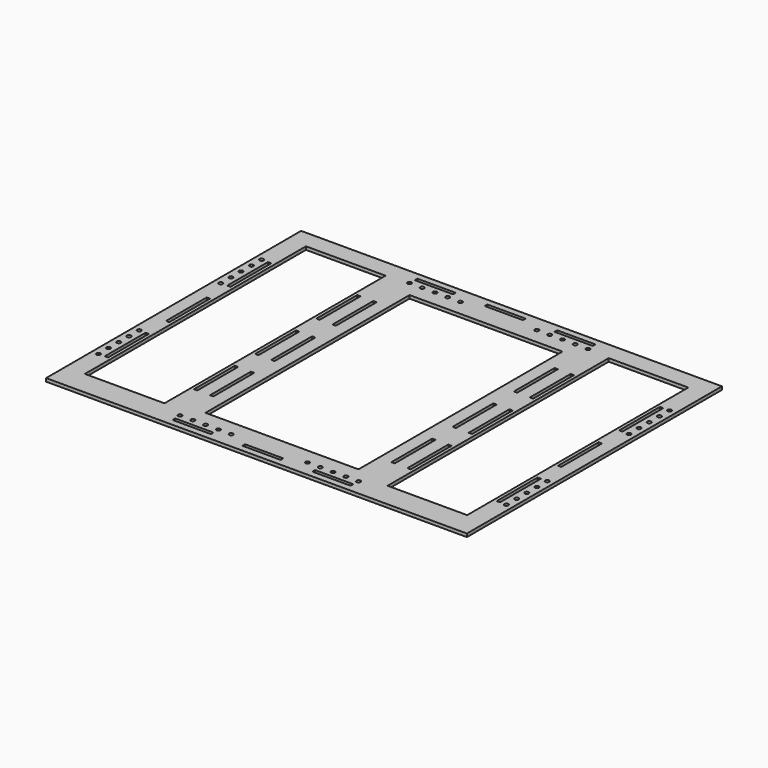
from build123d import *

# Parameters (mm, degrees)
F0_R     = 1.984375
F0_W     = 38.1
F0_H     = 3.302
F0_W_2   = 3.302
F0_H_2   = 50.8
F0_W_3   = 79.248
F0_H_3   = 275.232702
F0_W_4   = 152.4
F0_H_4   = 254
F1_DEPTH = 3.175


with BuildPart() as f1:
    # F0 (on Top) → F1 (new body)
    with BuildSketch(Plane.XY):
        Polygon((-107.700216, 150.306364), (-206.125216, 150.306364), (-206.125216, -167.193636), (-107.700216, -167.193636), (114.549784, -167.193636), (212.974784, -167.193636), (212.974784, 150.306364), (114.549784, 150.306364), align=None)
        with Locations((-199.775216, -110.043636)):
            Circle(F0_R, mode=Mode.SUBTRACT)
        with Locations((-199.775216, -97.343636)):
            Circle(F0_R, mode=Mode.SUBTRACT)
        with Locations((-85.475216, -151.191636)):
            Circle(F0_R, mode=Mode.SUBTRACT)
        with Locations((-66.171216, -159.192636)):
            Rectangle(F0_W, F0_H, mode=Mode.SUBTRACT)
        with Locations((-72.775216, -151.191636)):
            Circle(F0_R, mode=Mode.SUBTRACT)
        with Locations((-60.075216, -151.191636)):
            Circle(F0_R, mode=Mode.SUBTRACT)
        with Locations((-47.375216, -151.191636)):
            Circle(F0_R, mode=Mode.SUBTRACT)
        with Locations((-34.675216, -151.191636)):
            Circle(F0_R, mode=Mode.SUBTRACT)
        with Locations((3.424784, -159.192636)):
            Rectangle(F0_W, F0_H, mode=Mode.SUBTRACT)
        with Locations((-199.775216, -84.643636)):
            Circle(F0_R, mode=Mode.SUBTRACT)
        with Locations((-191.774216, -84.643636)):
            Rectangle(F0_W_2, F0_H_2, mode=Mode.SUBTRACT)
        with Locations((-199.775216, -71.943636)):
            Circle(F0_R, mode=Mode.SUBTRACT)
        with Locations((-199.775216, -59.243636)):
            Circle(F0_R, mode=Mode.SUBTRACT)
        with Locations((-102.874216, -84.643636)):
            Rectangle(F0_W_2, F0_H_2, mode=Mode.SUBTRACT)
        with Locations((-86.872216, -84.643636)):
            Rectangle(F0_W_2, F0_H_2, mode=Mode.SUBTRACT)
        with Locations((41.524784, -151.191636)):
            Circle(F0_R, mode=Mode.SUBTRACT)
        with Locations((54.224784, -151.191636)):
            Circle(F0_R, mode=Mode.SUBTRACT)
        with Locations((73.020784, -159.192636)):
            Rectangle(F0_W, F0_H, mode=Mode.SUBTRACT)
        with Locations((66.924784, -151.191636)):
            Circle(F0_R, mode=Mode.SUBTRACT)
        with Locations((79.624784, -151.191636)):
            Circle(F0_R, mode=Mode.SUBTRACT)
        with Locations((92.324784, -151.191636)):
            Circle(F0_R, mode=Mode.SUBTRACT)
        with Locations((206.624784, -110.043636)):
            Circle(F0_R, mode=Mode.SUBTRACT)
        with Locations((206.624784, -97.343636)):
            Circle(F0_R, mode=Mode.SUBTRACT)
        with Locations((93.721784, -84.643636)):
            Rectangle(F0_W_2, F0_H_2, mode=Mode.SUBTRACT)
        with Locations((109.723784, -84.643636)):
            Rectangle(F0_W_2, F0_H_2, mode=Mode.SUBTRACT)
        with Locations((198.623784, -84.643636)):
            Rectangle(F0_W_2, F0_H_2, mode=Mode.SUBTRACT)
        with Locations((206.624784, -84.643636)):
            Circle(F0_R, mode=Mode.SUBTRACT)
        with Locations((206.624784, -71.943636)):
            Circle(F0_R, mode=Mode.SUBTRACT)
        with Locations((206.624784, -59.243636)):
            Circle(F0_R, mode=Mode.SUBTRACT)
        with Locations((-191.774216, -8.443636)):
            Rectangle(F0_W_2, F0_H_2, mode=Mode.SUBTRACT)
        with Locations((-147.324216, -5.242554)):
            Rectangle(F0_W_3, F0_H_3, mode=Mode.SUBTRACT)
        with Locations((-102.874216, -8.443636)):
            Rectangle(F0_W_2, F0_H_2, mode=Mode.SUBTRACT)
        with Locations((-199.775216, 42.356364)):
            Circle(F0_R, mode=Mode.SUBTRACT)
        with Locations((-199.775216, 55.056364)):
            Circle(F0_R, mode=Mode.SUBTRACT)
        with Locations((-199.775216, 67.756364)):
            Circle(F0_R, mode=Mode.SUBTRACT)
        with Locations((-191.774216, 67.756364)):
            Rectangle(F0_W_2, F0_H_2, mode=Mode.SUBTRACT)
        with Locations((-102.874216, 67.756364)):
            Rectangle(F0_W_2, F0_H_2, mode=Mode.SUBTRACT)
        with Locations((-86.872216, -8.443636)):
            Rectangle(F0_W_2, F0_H_2, mode=Mode.SUBTRACT)
        with Locations((3.424784, -8.443636)):
            Rectangle(F0_W_4, F0_H_4, mode=Mode.SUBTRACT)
        with Locations((-86.872216, 67.756364)):
            Rectangle(F0_W_2, F0_H_2, mode=Mode.SUBTRACT)
        with Locations((-199.775216, 80.456364)):
            Circle(F0_R, mode=Mode.SUBTRACT)
        with Locations((-199.775216, 93.156364)):
            Circle(F0_R, mode=Mode.SUBTRACT)
        with Locations((-85.475216, 134.304364)):
            Circle(F0_R, mode=Mode.SUBTRACT)
        with Locations((-72.775216, 134.304364)):
            Circle(F0_R, mode=Mode.SUBTRACT)
        with Locations((-60.075216, 134.304364)):
            Circle(F0_R, mode=Mode.SUBTRACT)
        with Locations((-66.171216, 142.305364)):
            Rectangle(F0_W, F0_H, mode=Mode.SUBTRACT)
        with Locations((-47.375216, 134.304364)):
            Circle(F0_R, mode=Mode.SUBTRACT)
        with Locations((-34.675216, 134.304364)):
            Circle(F0_R, mode=Mode.SUBTRACT)
        with Locations((3.424784, 142.305364)):
            Rectangle(F0_W, F0_H, mode=Mode.SUBTRACT)
        with Locations((93.721784, -8.443636)):
            Rectangle(F0_W_2, F0_H_2, mode=Mode.SUBTRACT)
        with Locations((93.721784, 67.756364)):
            Rectangle(F0_W_2, F0_H_2, mode=Mode.SUBTRACT)
        with Locations((109.723784, -8.443636)):
            Rectangle(F0_W_2, F0_H_2, mode=Mode.SUBTRACT)
        with Locations((154.173784, -5.242554)):
            Rectangle(F0_W_3, F0_H_3, mode=Mode.SUBTRACT)
        with Locations((198.623784, -8.443636)):
            Rectangle(F0_W_2, F0_H_2, mode=Mode.SUBTRACT)
        with Locations((109.723784, 67.756364)):
            Rectangle(F0_W_2, F0_H_2, mode=Mode.SUBTRACT)
        with Locations((206.624784, 42.356364)):
            Circle(F0_R, mode=Mode.SUBTRACT)
        with Locations((206.624784, 55.056364)):
            Circle(F0_R, mode=Mode.SUBTRACT)
        with Locations((198.623784, 67.756364)):
            Rectangle(F0_W_2, F0_H_2, mode=Mode.SUBTRACT)
        with Locations((206.624784, 67.756364)):
            Circle(F0_R, mode=Mode.SUBTRACT)
        with Locations((41.524784, 134.304364)):
            Circle(F0_R, mode=Mode.SUBTRACT)
        with Locations((54.224784, 134.304364)):
            Circle(F0_R, mode=Mode.SUBTRACT)
        with Locations((66.924784, 134.304364)):
            Circle(F0_R, mode=Mode.SUBTRACT)
        with Locations((79.624784, 134.304364)):
            Circle(F0_R, mode=Mode.SUBTRACT)
        with Locations((73.020784, 142.305364)):
            Rectangle(F0_W, F0_H, mode=Mode.SUBTRACT)
        with Locations((92.324784, 134.304364)):
            Circle(F0_R, mode=Mode.SUBTRACT)
        with Locations((206.624784, 80.456364)):
            Circle(F0_R, mode=Mode.SUBTRACT)
        with Locations((206.624784, 93.156364)):
            Circle(F0_R, mode=Mode.SUBTRACT)
    extrude(amount=F1_DEPTH)


solid = f1.part
